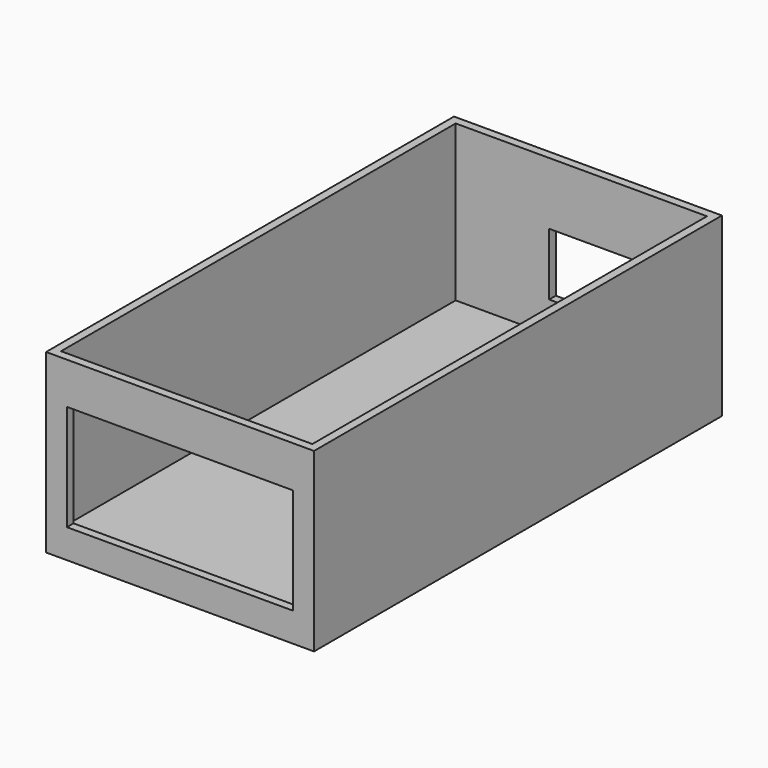
from build123d import *

# Parameters (mm, degrees)
F0_W     = 25.8
F0_H     = 49.1
F0_W_2   = 24.2
F0_H_2   = 47.5
F1_DEPTH = 2
F2_W     = 25.8
F2_H     = 49.1
F2_W_2   = 24.2
F2_H_2   = 47.5
F3_DEPTH = 15
F4_W     = 21.8
F4_H     = 10.2
F5_DEPTH = 0.8
F6_W     = 10
F6_H     = 6
F7_DEPTH = 0.8


with BuildPart() as f1:
    # F0 (on Top) → F1 (new body)
    with BuildSketch(Plane.XY):
        Rectangle(F0_W, F0_H)
        Rectangle(F0_W_2, F0_H_2, mode=Mode.SUBTRACT)
        Rectangle(F0_W_2, F0_H_2)
    extrude(amount=F1_DEPTH)

    # F2 (on face) → F3 (join)
    with BuildSketch(Plane.XY.offset(2)):
        Rectangle(F2_W, F2_H)
        Rectangle(F2_W_2, F2_H_2, mode=Mode.SUBTRACT)
    extrude(amount=F3_DEPTH)

    # F4 (on face) → F5 (cut, through all)
    with BuildSketch(Plane.XZ.offset(24.55)):
        with Locations((0, 7.9)):
            Rectangle(F4_W, F4_H)
    extrude(amount=-F5_DEPTH, mode=Mode.SUBTRACT)

    # F6 (on face) → F7 (cut, through all)
    with BuildSketch(Plane(origin=(0, 24.55, 0), x_dir=(-1, 0, 0), z_dir=(0, 1, 0))):
        with Locations((-1.9, 8)):
            Rectangle(F6_W, F6_H)
    extrude(amount=-F7_DEPTH, mode=Mode.SUBTRACT)


solid = f1.part
